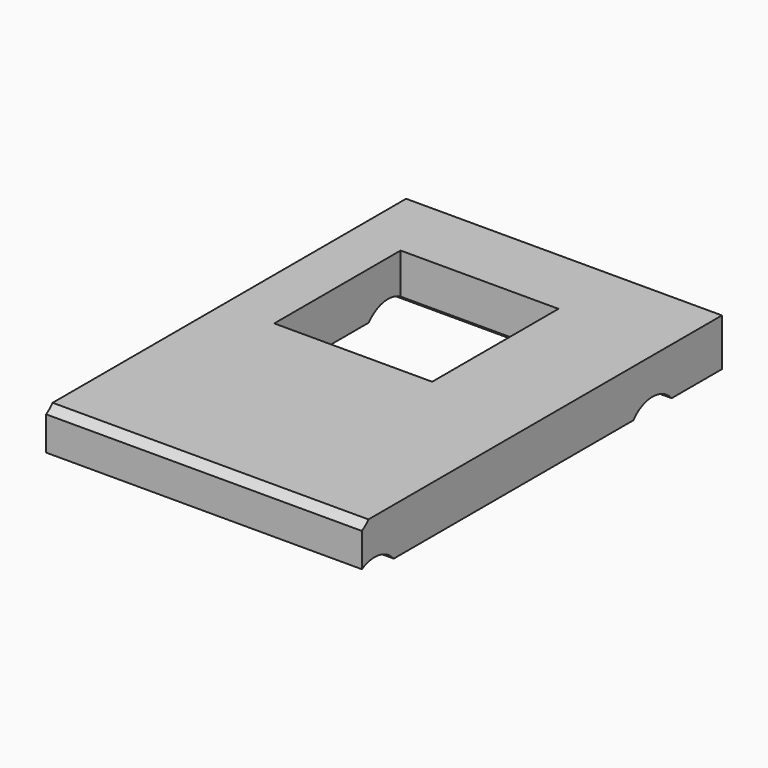
from build123d import *

# Parameters (mm, degrees)
BOX044_W          = 50
BOX044_H          = 20
BOX044_DEPTH      = 30
BOX_W             = 10
BOX_H             = 10
BOX_DEPTH         = 30
CYLINDER011_R     = 2
CYLINDER011_DEPTH = 24
CYLINDER009_R     = 2
CYLINDER009_DEPTH = 24
CYLINDER008_R     = 2
CYLINDER008_DEPTH = 24
BOX001_W          = 20
BOX001_H          = 33
BOX001_DEPTH      = 3


with BuildPart() as cube040:
    # Box044 → Box044 (new body)
    with BuildSketch(Plane(origin=(-25, -32, -1), x_dir=(1, 0, 0), z_dir=(0, 0, 1))):
        with Locations((25, 10)):
            Rectangle(BOX044_W, BOX044_H)
    extrude(amount=BOX044_DEPTH)


with BuildPart() as cube:
    # Box → Box (new body)
    with BuildSketch(Plane(origin=(-5, 2, -1), x_dir=(1, 0, 0), z_dir=(0, 0, 1))):
        with Locations((5, 5)):
            Rectangle(BOX_W, BOX_H)
    extrude(amount=BOX_DEPTH)


with BuildPart() as cylinder007:
    # Cylinder011 → Cylinder011 (new body)
    with BuildSketch(Plane(origin=(-10, -13, 4.3), x_dir=(0, 0, -1), z_dir=(1, 0, 0))):
        Circle(CYLINDER011_R)
    extrude(amount=CYLINDER011_DEPTH)


with BuildPart() as cylinder005:
    # Cylinder009 → Cylinder009 (new body)
    with BuildSketch(Plane(origin=(-10, -11, -1.3), x_dir=(0, 0, -1), z_dir=(1, 0, 0))):
        Circle(CYLINDER009_R)
    extrude(amount=CYLINDER009_DEPTH)


with BuildPart() as cylinder004:
    # Cylinder008 → Cylinder008 (new body)
    with BuildSketch(Plane(origin=(-10, 11, -1.3), x_dir=(0, 0, -1), z_dir=(1, 0, 0))):
        Circle(CYLINDER008_R)
    extrude(amount=CYLINDER008_DEPTH)


with BuildPart() as paste_extruder_charger:
    # Box001 → Box001 (new body)
    with BuildSketch(Plane(origin=(-8.25, -16.5, 0), x_dir=(1, 0, 0), z_dir=(0, 0, 1))):
        with Locations((10, 16.5)):
            Rectangle(BOX001_W, BOX001_H)
    extrude(amount=BOX001_DEPTH)

    # Cut001: cut Cylinder004
    add(cylinder004.part, mode=Mode.SUBTRACT)

    # Cut002: cut Cylinder005
    add(cylinder005.part, mode=Mode.SUBTRACT)

    # Cut003: cut Cylinder007
    add(cylinder007.part, mode=Mode.SUBTRACT)

    # Cut063: cut Cube
    add(cube.part, mode=Mode.SUBTRACT)

    # Cut062: cut Cube040
    add(cube040.part, mode=Mode.SUBTRACT)


with BuildPart() as paste_extruder_charger_1:
    # Cut062 placement: moved
    add(paste_extruder_charger.part.moved(Location((0, 58, 0))))


solid = paste_extruder_charger_1.part
